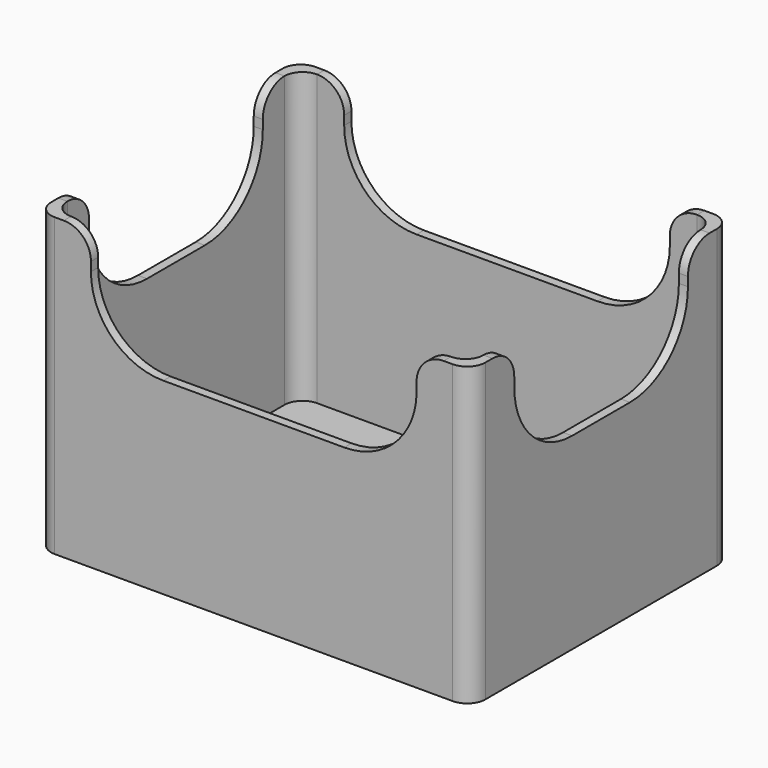
from build123d import *

# Parameters (mm, degrees)
F0_W     = 304.8
F0_H     = 228.6
F0_W_2   = 292.1
F0_H_2   = 127
F1_DEPTH = 5
F2_W     = 304.8
F2_H     = 228.6
F3_DEPTH = 203.2
F4_W     = 228.6
F4_H     = 76.2
F5_DEPTH = 228.601
F6_W     = 152.4
F6_H     = 76.2
F7_DEPTH = 304.801
F8_R     = 50.8
F9_R     = 19.05
F10_R    = 12.7


with BuildPart() as f1:
    # F0 (on Top) → F1 (new body)
    with BuildSketch(Plane.XY):
        Rectangle(F0_W, F0_H)
        Rectangle(F0_W_2, F0_H_2, mode=Mode.SUBTRACT)
    extrude(amount=F1_DEPTH)

    # F2 (on face) → F3 (join)
    with BuildSketch(Plane.XY.offset(5)):
        Rectangle(F2_W, F2_H)
        Polygon((-146.0499983072, 63.5), (-146.0499983072, 107.9499983072), (146.0499983072, 107.9499983072), (146.0499983072, 63.5), (146.0499983072, -63.5), (146.0499983072, -107.9499983072), (-146.0499983072, -107.9499983072), (-146.0499983072, -63.5), align=None, mode=Mode.SUBTRACT)
    extrude(amount=F3_DEPTH)

    # F4 (on face) → F5 (cut, through all)
    with BuildSketch(Plane.XZ.offset(114.3)):
        with Locations((0, 170.1)):
            Rectangle(F4_W, F4_H)
    extrude(amount=-F5_DEPTH, mode=Mode.SUBTRACT)

    # F6 (on face) → F7 (cut, through all)
    with BuildSketch(Plane.YZ.offset(152.4)):
        with Locations((0, 170.1)):
            Rectangle(F6_W, F6_H)
    extrude(amount=-F7_DEPTH, mode=Mode.SUBTRACT)

    # F8
    f8_edges = [f1.edges().sort_by_distance(p)[0] for p in [
        (-114.3, -111.124999, 132),
        (-149.224999, 76.2, 132),
        (-114.3, 111.124999, 132),
        (-149.224999, -76.2, 132),
        (114.3, 111.124999, 132),
        (149.224999, -76.2, 132),
        (114.3, -111.124999, 132),
        (149.224999, 76.2, 132),
    ]]
    fillet(f8_edges, radius=F8_R)

    # F9
    f9_edges = [f1.edges().sort_by_distance(p)[0] for p in [
        (149.224999, 76.2, 208.2),
        (114.3, 111.124999, 208.2),
        (-114.3, 111.124999, 208.2),
        (-149.224999, 76.2, 208.2),
        (-149.224999, -76.2, 208.2),
        (-114.3, -111.124999, 208.2),
        (114.3, -111.124999, 208.2),
        (149.224999, -76.2, 208.2),
    ]]
    fillet(f9_edges, radius=F9_R)

    # F10
    f10_edges = [f1.edges().sort_by_distance(p)[0] for p in [
        (152.4, -114.3, 104.1),
        (146.049998, -107.949998, 106.6),
        (-152.4, -114.3, 104.1),
        (146.049998, 107.949998, 106.6),
        (-146.049998, 107.949998, 106.6),
        (-146.049998, -107.949998, 106.6),
        (-152.4, 114.3, 104.1),
        (152.4, 114.3, 104.1),
    ]]
    fillet(f10_edges, radius=F10_R)


solid = f1.part
